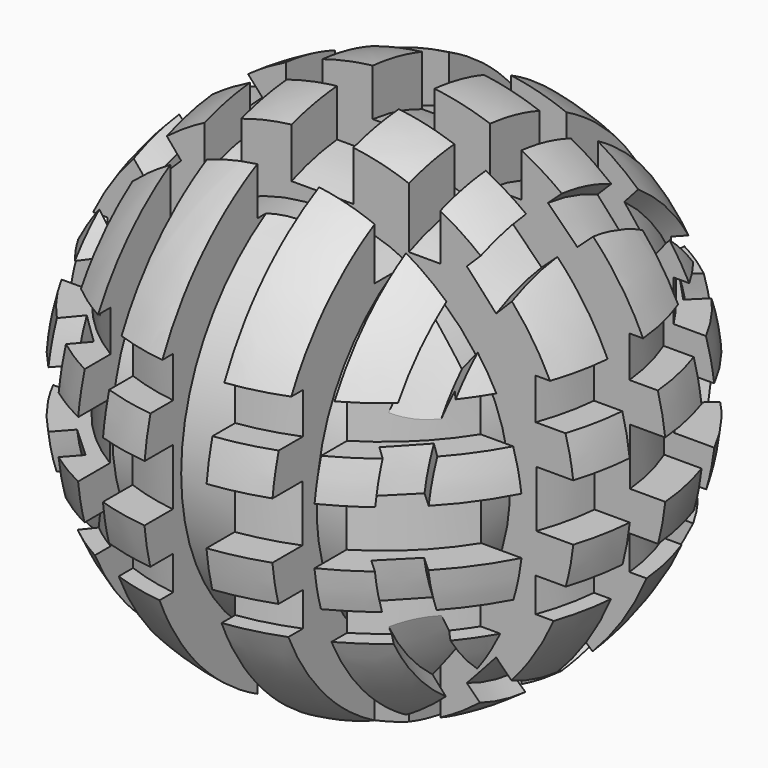
from build123d import *

# Parameters (mm, degrees)
F2_W    = 17.779998
F2_H    = 23.706671
F4_W    = 15.62649
F4_H    = 16.277599
F8_W    = 10.892265
F8_H    = 11.812732
F8_H_2  = 9.818375
F10_W   = 26.558679
F10_H   = 12.839626
F10_H_2 = 9.673689
F10_H_3 = 12.311969
F12_W   = 10.569803
F12_H   = 18.561605
F12_W_2 = 9.023003


with BuildPart() as f1:
    # F0 (on Front) → F1 (revolve)
    with BuildSketch(Plane.XZ):
        with BuildLine():
            Line((0, -75.690612), (0, 76.039821))
            ThreePointArc((0, 76.039821), (-76.22631, 0.174604), (0, -75.690612))
        make_face()
    revolve(axis=Axis((0, 0, 0.174604), (0, 0, -1)))

    # F2 (on Front) → F3 (revolve, cut)
    with BuildSketch(Plane.XZ):
        with Locations((0.24016, 73.965626)):
            Rectangle(F2_W, F2_H)
    revolve(axis=Axis((-11.400878, 0, 0), (1, 0, 0)), mode=Mode.SUBTRACT)

    # F4 (on Front) → F5 (revolve, cut)
    with BuildSketch(Plane.XZ):
        with Locations((-73.521726, 0.354024)):
            Rectangle(F4_W, F4_H)
    revolve(axis=Axis((0, 0, 0.174604), (0, 0, -1)), mode=Mode.SUBTRACT)

    # F6 (on Front) → F7 (revolve, cut)
    with BuildSketch(Plane.XZ):
        Polygon((-52.923167, 71.142756), (-62.224355, 62.814042), (-49.636073, 48.948694), (-40.392511, 57.340879), align=None)
        Polygon((56.960921, 71.142756), (41.758859, 57.340879), (50.203926, 48.948694), (65.475898, 62.814042), align=None)
    revolve(axis=Axis((-0.468824, 0, 0), (1, 0, 0)), mode=Mode.SUBTRACT)

    # F8 (on Front) → F9 (revolve, cut)
    with BuildSketch(Plane.XZ):
        with Locations((70.992243, 25.618892)):
            Rectangle(F8_W, F8_H)
        with Locations((70.992243, -24.009929)):
            Rectangle(F8_W, F8_H_2)
    revolve(axis=Axis((0, 0, -0.480819), (0, 0, -1)), mode=Mode.SUBTRACT)

    # F10 (on Top) → F11 (revolve, cut)
    with BuildSketch(Plane.XY):
        with Locations((-67.464733, 0.332943)):
            Rectangle(F10_W, F10_H)
        with Locations((-67.464733, 29.354015)):
            Rectangle(F10_W, F10_H_2)
        with Locations((-67.464733, -28.600187)):
            Rectangle(F10_W, F10_H_3)
    revolve(axis=Axis((0, 0.420887, 0), (0, -1, 0)), mode=Mode.SUBTRACT)

    # F12 (on Front) → F13 (revolve, cut)
    with BuildSketch(Plane.XZ):
        with Locations((-28.376005, 64.939087)):
            Rectangle(F12_W, F12_H)
        with Locations((29.629014, 64.939087)):
            Rectangle(F12_W_2, F12_H)
    revolve(axis=Axis((-8.918494, 0, 0), (1, 0, 0)), mode=Mode.SUBTRACT)


solid = f1.part
